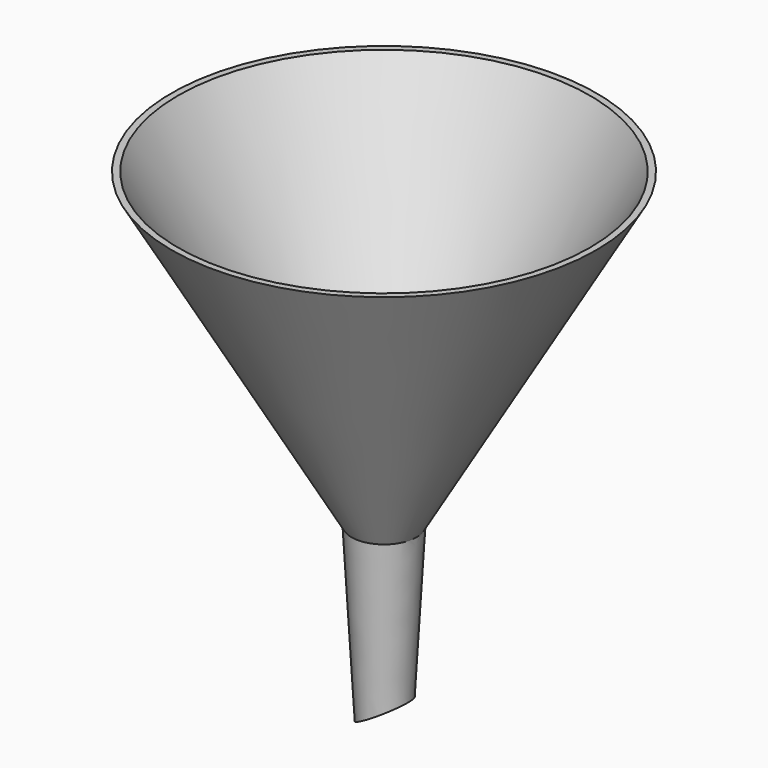
from build123d import *

# Parameters (mm, degrees)
F0_R     = 3.5
F2_R     = 5
F4_R     = 2.5
F5_R     = 4
F8_DEPTH = 12.5
F12_R    = 5
F13_R    = 32.75
F9_R     = 4
F11_R    = 31.75


with BuildPart() as f3:
    # F0 (on Top) → F3 section 0
    with BuildSketch(Plane.XY):
        Circle(F0_R)
    # F2 (on offset) → F3 section 1
    with BuildSketch(Plane.XY.offset(27)):
        Circle(F2_R)
    loft()

    # F4 (on Top) → F6 section 0
    with BuildSketch(Plane.XY):
        Circle(F4_R)
    # F5 (on offset) → F6 section 1
    with BuildSketch(Plane.XY.offset(27)):
        Circle(F5_R)
    loft(mode=Mode.SUBTRACT)

    # F7 (on Front) → F8 (cut, symmetric)
    with BuildSketch(Plane.XZ):
        Polygon((12.088457, 9), (-3.5, 0), (12.088457, 0), align=None)
    extrude(amount=F8_DEPTH, both=True, mode=Mode.SUBTRACT)

    # F12 (on offset) → F14 section 0
    with BuildSketch(Plane.XY.offset(27)):
        Circle(F12_R)
    # F13 (on offset) → F14 section 1
    with BuildSketch(Plane.XY.offset(75)):
        Circle(F13_R)
    loft()

    # F9 (on offset) → F15 section 0
    with BuildSketch(Plane.XY.offset(27)):
        Circle(F9_R)
    # F11 (on offset) → F15 section 1
    with BuildSketch(Plane.XY.offset(75)):
        Circle(F11_R)
    loft(mode=Mode.SUBTRACT)


solid = f3.part
